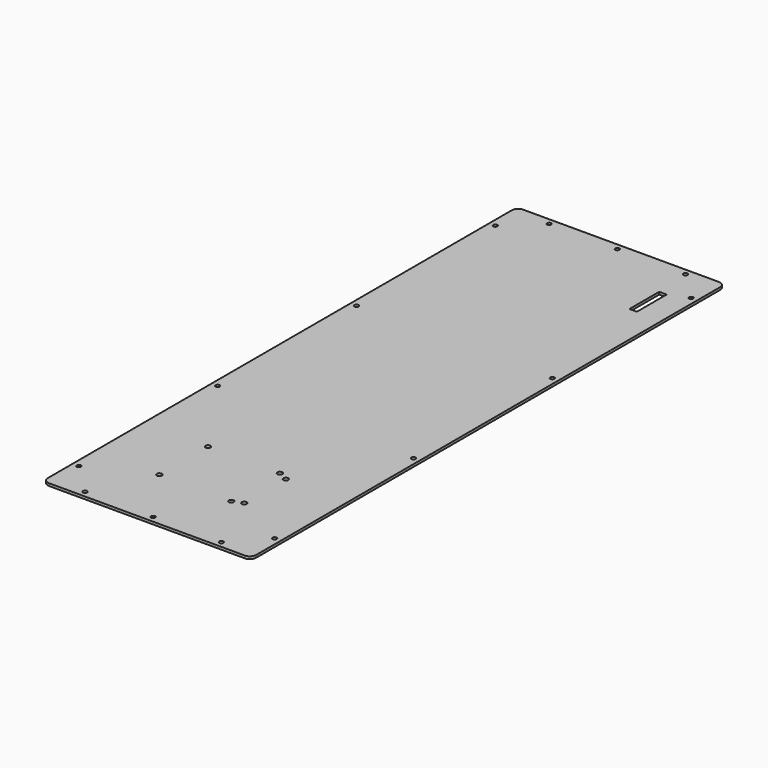
from build123d import *

# Parameters (mm, degrees)
PAD_DEPTH       = 2.03
SKETCH001_R     = 1.65
POCKET_DEPTH    = 5
SKETCH002_W     = 6
SKETCH002_H     = 30
POCKET001_DEPTH = 5
SKETCH004_R     = 2
POCKET002_DEPTH = 5


with BuildPart() as part:
    # Sketch → Pad (new body)
    with BuildSketch(Plane.XY):
        with BuildLine():
            Line((5, 478), (163, 478))
            ThreePointArc((168, 473), (166.535534, 476.535534), (163, 478))
            Line((168, 473), (168, 5))
            ThreePointArc((163, 0), (166.535534, 1.464466), (168, 5))
            Line((163, 0), (5, 0))
            ThreePointArc((0, 5), (1.464466, 1.464466), (5, 0))
            Line((0, 5), (0, 473))
            ThreePointArc((5, 478), (1.464466, 476.535534), (0, 473))
        make_face()
    extrude(amount=PAD_DEPTH)

    # Sketch001 → Pocket (cut)
    with BuildSketch(Plane.XY.offset(2.03)):
        with Locations((140, 5)):
            Circle(SKETCH001_R)
        with Locations((30, 5)):
            Circle(SKETCH001_R)
        with Locations((85, 5)):
            Circle(SKETCH001_R)
        with Locations((5, 30)):
            Circle(SKETCH001_R)
        with Locations((163, 30)):
            Circle(SKETCH001_R)
        with Locations((163, 170)):
            Circle(SKETCH001_R)
        with Locations((163, 310)):
            Circle(SKETCH001_R)
        with Locations((5, 310)):
            Circle(SKETCH001_R)
        with Locations((5, 170)):
            Circle(SKETCH001_R)
        with Locations((5, 450)):
            Circle(SKETCH001_R)
        with Locations((30, 473)):
            Circle(SKETCH001_R)
        with Locations((85, 473)):
            Circle(SKETCH001_R)
        with Locations((140, 473)):
            Circle(SKETCH001_R)
        with Locations((163, 450)):
            Circle(SKETCH001_R)
    extrude(amount=-POCKET_DEPTH, mode=Mode.SUBTRACT)

    # Sketch002 → Pocket001 (cut)
    with BuildSketch(Plane.XY.offset(2.03)):
        with Locations((145, 429)):
            Rectangle(SKETCH002_W, SKETCH002_H)
    extrude(amount=-POCKET001_DEPTH, mode=Mode.SUBTRACT)

    # Sketch004 → Pocket002 (cut)
    with BuildSketch(Plane.XY.offset(2.03)):
        with Locations((118, 97.5)):
            Circle(SKETCH004_R)
        with Locations((118, 55.675)):
            Circle(SKETCH004_R)
        with Locations((52, 52.5)):
            Circle(SKETCH004_R)
        with Locations((52, 101.5)):
            Circle(SKETCH004_R)
        with Locations((110, 101.5)):
            Circle(SKETCH004_R)
        with Locations((110, 52.5)):
            Circle(SKETCH004_R)
    extrude(amount=-POCKET002_DEPTH, mode=Mode.SUBTRACT)


solid = part.part
